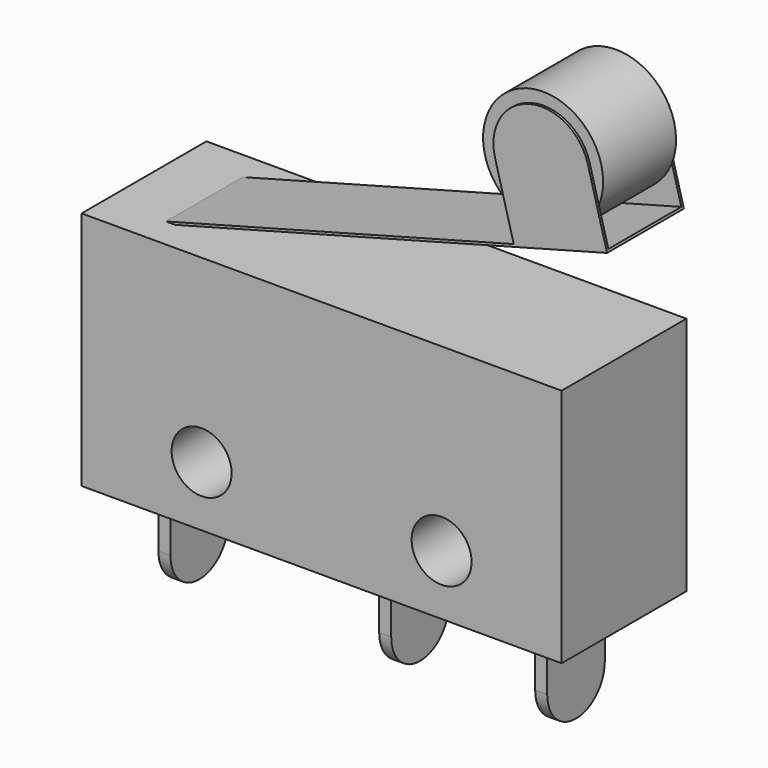
from build123d import *

# Parameters (mm, degrees)
SKETCH_W     = 20
SKETCH_H     = 10
SKETCH_R     = 1.25
PAD_DEPTH    = 6.5
SKETCH001_W  = 19
SKETCH001_H  = 4
PAD001_DEPTH = 0.1
SKETCH002_W  = 4
SKETCH002_H  = 0.1
PAD002_DEPTH = 5
FILLET_R     = 1.99
SKETCH003_R  = 2.5
PAD003_DEPTH = 3.8
SKETCH004_W  = 0.5
SKETCH004_H  = 3
PAD004_DEPTH = 4
FILLET001_R  = 1.49


with BuildPart() as part:
    # Sketch → Pad (new body)
    with BuildSketch(Plane.XZ):
        with Locations((10, 5)):
            Rectangle(SKETCH_W, SKETCH_H)
        with Locations((5, 2.5)):
            Circle(SKETCH_R, mode=Mode.SUBTRACT)
        with Locations((15, 2.5)):
            Circle(SKETCH_R, mode=Mode.SUBTRACT)
    extrude(amount=PAD_DEPTH)

    # Sketch001 (on Face3 of Pad) → Pad001 (join)
    with BuildSketch(Plane(origin=(2.5, 1.5, 10), x_dir=(-0.965926, 0, -0.258819), z_dir=(-0.258819, 0, 0.965926))):
        with Locations((-9.5, 4.728916)):
            Rectangle(SKETCH001_W, SKETCH001_H)
    extrude(amount=-PAD001_DEPTH)

    # Sketch002 (on Face12 of Pad001) → Pad002 (join)
    with BuildSketch(Plane(origin=(-2.332532, 0, 8.705127), x_dir=(-0.965926, 0, -0.258819), z_dir=(-0.258819, 0, 0.965926))):
        with Locations((-22.003005, 5.178916)):
            Rectangle(SKETCH002_W, SKETCH002_H)
        with Locations((-22.003005, 1.278916)):
            Rectangle(SKETCH002_W, SKETCH002_H)
    extrude(amount=PAD002_DEPTH)

    # Fillet
    fillet_edges = [part.edges().sort_by_distance(p)[0] for p in [
        (19.558495, -5.178916, 19.747191),
        (15.694792, -5.178916, 18.711915),
        (15.694792, -1.278916, 18.711915),
        (19.558495, -1.278916, 19.747191),
    ]]
    fillet(fillet_edges, radius=FILLET_R)

    # Sketch003 (on Face5 of Fillet) → Pad003 (join)
    with BuildSketch(Plane.XZ.offset(1.328916)):
        with Locations((18.132034, 17.304772)):
            Circle(SKETCH003_R)
    extrude(amount=PAD003_DEPTH)

    # Sketch004 (on Face24 of Pad003) → Pad004 (join)
    with BuildSketch(Plane(origin=(0, 0, 0), x_dir=(1, 0, 0), z_dir=(0, 0, -1))):
        with Locations((17.75, 3.25)):
            Rectangle(SKETCH004_W, SKETCH004_H)
        with Locations((11.25, 3.25)):
            Rectangle(SKETCH004_W, SKETCH004_H)
        with Locations((2.05, 3.25)):
            Rectangle(SKETCH004_W, SKETCH004_H)
    extrude(amount=PAD004_DEPTH)

    # Fillet001
    fillet001_edges = [part.edges().sort_by_distance(p)[0] for p in [
        (2.05, -4.75, -4),
        (2.05, -1.75, -4),
        (11.25, -4.75, -4),
        (11.25, -1.75, -4),
        (17.75, -4.75, -4),
        (17.75, -1.75, -4),
    ]]
    fillet(fillet001_edges, radius=FILLET001_R)


solid = part.part
